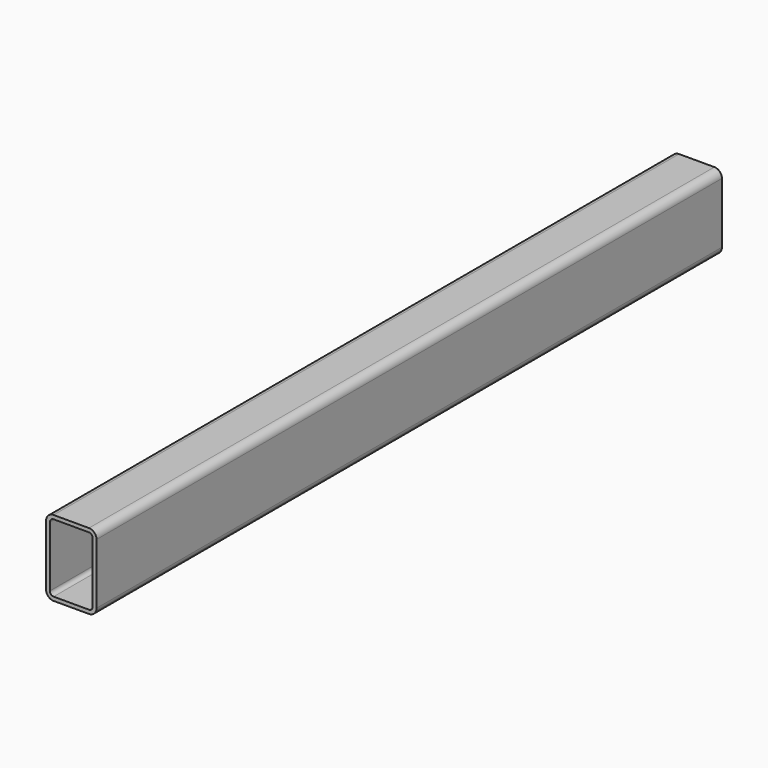
from build123d import *

# Parameters (mm, degrees)
F1_DEPTH = 620


with BuildPart() as f1:
    # F0 (on Front) → F1 (new body)
    with BuildSketch(Plane.XZ):
        with BuildLine():
            Line((14, 30), (-14, 30))
            ThreePointArc((-14, 30), (-18.242641, 28.242641), (-20, 24))
            Line((-20, 24), (-20, -24))
            ThreePointArc((-20, -24), (-18.242641, -28.242641), (-14, -30))
            Line((-14, -30), (14, -30))
            ThreePointArc((14, -30), (18.242641, -28.242641), (20, -24))
            Line((20, -24), (20, 24))
            ThreePointArc((20, 24), (18.242641, 28.242641), (14, 30))
        make_face()
        with BuildLine():
            Line((-17, -24), (-17, 24))
            ThreePointArc((-17, 24), (-16.12132, 26.12132), (-14, 27))
            Line((-14, 27), (14, 27))
            ThreePointArc((14, 27), (16.12132, 26.12132), (17, 24))
            Line((17, 24), (17, -24))
            ThreePointArc((17, -24), (16.12132, -26.12132), (14, -27))
            Line((14, -27), (-14, -27))
            ThreePointArc((-14, -27), (-16.12132, -26.12132), (-17, -24))
        make_face(mode=Mode.SUBTRACT)
    extrude(amount=F1_DEPTH)


solid = f1.part
